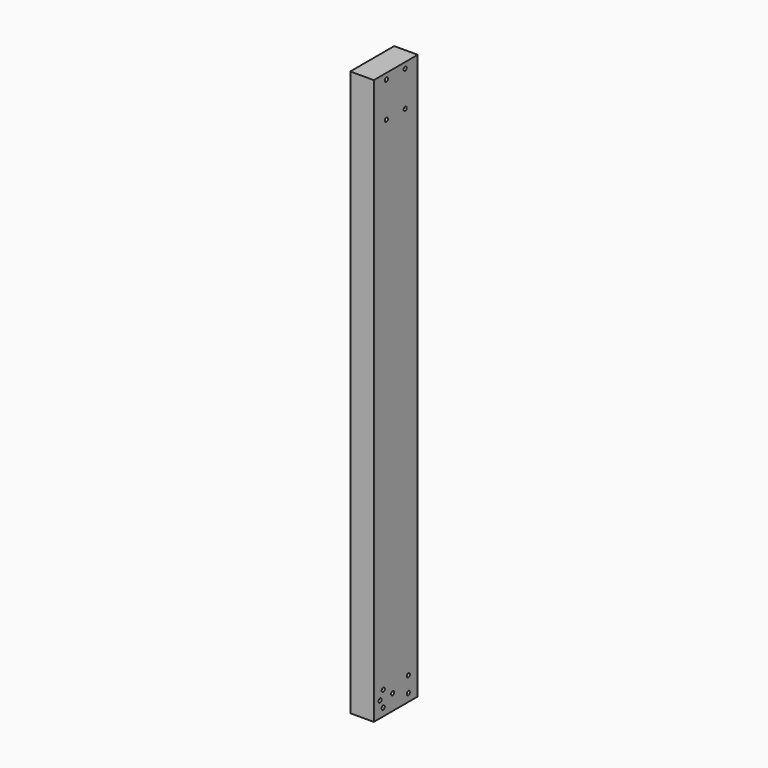
from build123d import *

# Parameters (mm, degrees)
F0_W     = 88.9
F0_H     = 914.4
F1_DEPTH = 38.1
F3_D     = 6.35
F5_D     = 6.35
F7_D     = 6.35
F7_DEPTH = 12.7
F7_TIP   = 1.9077324654
F9_D     = 6.35
F9_DEPTH = 12.7
F9_TIP   = 1.9077324654


with BuildPart() as f1:
    # F0 (on Right) → F1 (new body)
    with BuildSketch(Plane.YZ):
        with Locations((44.45, -457.2)):
            Rectangle(F0_W, F0_H)
    extrude(amount=F1_DEPTH)

    # F3 (through all)
    with Locations(Plane(origin=(0, 0, 0), x_dir=(0, -1, 0), z_dir=(-1, 0, 0))):
        with Locations((-63.5, -9.525), (-25.4, -9.525), (-63.5, -66.675), (-25.4, -66.675)):
            Hole(F3_D / 2)

    # F5 (through all)
    with Locations(Plane.YZ.offset(38.1)):
        with Locations((19.05, -876.3), (19.05, -901.7), (69.85, -876.3), (69.85, -901.7)):
            Hole(F5_D / 2)

    # F7
    with Locations(Plane(origin=(0, 0, 0), x_dir=(0, -1, 0), z_dir=(-1, 0, 0))):
        with Locations((-76.2, -889), (-50.8, -889)):
            Hole(F7_D / 2, depth=F7_DEPTH)
            with Locations((0, 0, -(F7_DEPTH + F7_TIP / 2))):  # 118° drill point
                Cone(0, F7_D / 2, F7_TIP, mode=Mode.SUBTRACT)

    # F9
    with Locations(Plane.YZ.offset(38.1)):
        with Locations((12.7, -889), (38.1, -889)):
            Hole(F9_D / 2, depth=F9_DEPTH)
            with Locations((0, 0, -(F9_DEPTH + F9_TIP / 2))):  # 118° drill point
                Cone(0, F9_D / 2, F9_TIP, mode=Mode.SUBTRACT)


solid = f1.part
